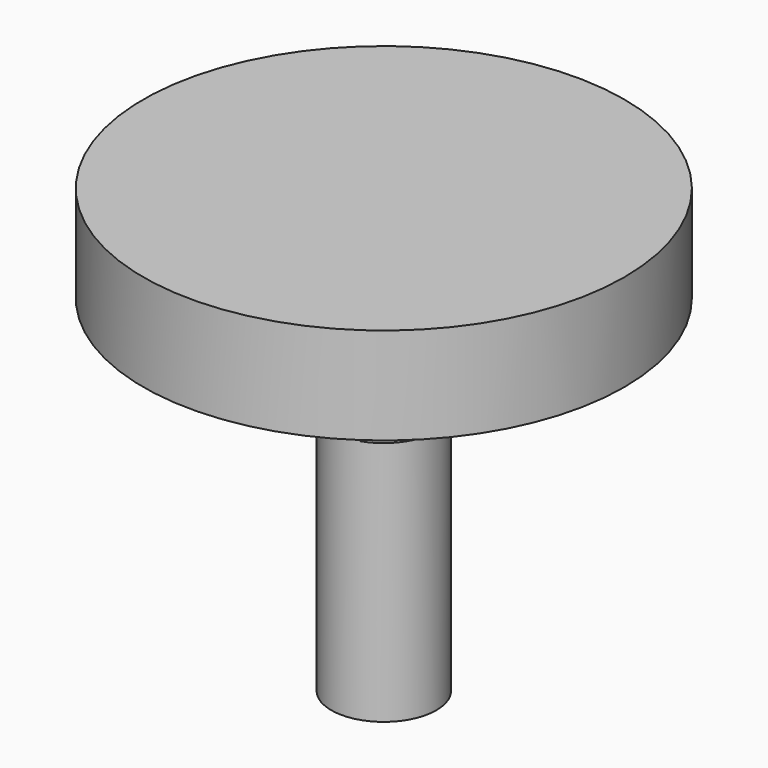
from build123d import *

# Parameters (mm, degrees)
F3_DEPTH = 10


with BuildPart() as f1:
    # F0 (on Front) → F1 (revolve)
    with BuildSketch(Plane.XZ):
        Polygon((1.23772, 44.093814), (0, 44.093814), (-11.758351, 44.093814), (-11.758351, -54.923873), (0, -54.923873), (0, 22.433694), (42.082518, 22.433694), (42.082518, 44.093814), align=None)
    revolve(axis=Axis((-11.758351, 0, -5.41503), (0, 0, 1)))

    # F2 (on Top) → F3 (cut)
    with BuildSketch(Plane.XY):
        Polygon((-4.191394, 14.178252), (-14.374423, 3.459273), (-10.18303, -10.718979), (4.191394, -14.178252), (14.374423, -3.459273), (10.18303, 10.718979), align=None)
    extrude(amount=F3_DEPTH, mode=Mode.SUBTRACT)


solid = f1.part
